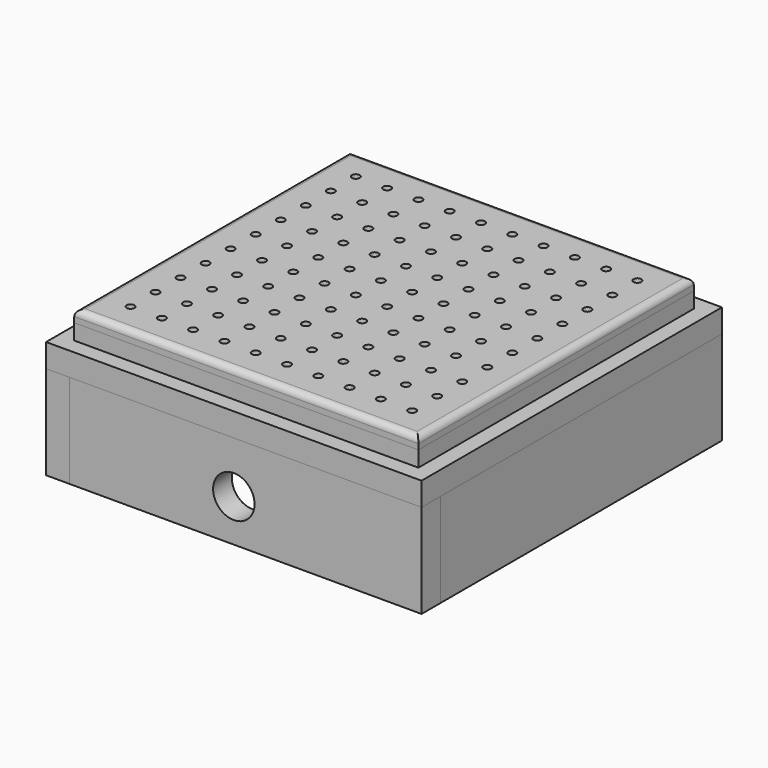
from build123d import *

# Parameters (mm, degrees)
F0_W      = 279.4
F0_H      = 279.4
F0_R      = 3.175
F1_DEPTH  = 9.525
F2_R      = 5.08
F3_W      = 279.4
F3_H      = 279.4
F3_W_2    = 228.6
F3_H_2    = 228.6
F4_DEPTH  = 12.7
F5_R      = 12.7
F6_W      = 304.8
F6_H      = 304.8
F6_R      = 16.8275
F7_DEPTH  = 19.05
F8_W      = 19.05
F8_H      = 285.75
F9_DEPTH  = 76.2
F10_COUNT = 4
F11_R     = 16.8275
F12_DEPTH = 25.4


with BuildPart() as f1:
    # F0 (on Top) → F1 (new body)
    with BuildSketch(Plane.XY):
        Rectangle(F0_W, F0_H)
        with Locations((-114.3, -114.3)):
            Circle(F0_R, mode=Mode.SUBTRACT)
        with Locations((-88.9, -114.3)):
            Circle(F0_R, mode=Mode.SUBTRACT)
        with Locations((-114.3, -88.9)):
            Circle(F0_R, mode=Mode.SUBTRACT)
        with Locations((-88.9, -88.9)):
            Circle(F0_R, mode=Mode.SUBTRACT)
        with Locations((-63.5, -114.3)):
            Circle(F0_R, mode=Mode.SUBTRACT)
        with Locations((-38.1, -114.3)):
            Circle(F0_R, mode=Mode.SUBTRACT)
        with Locations((-12.7, -114.3)):
            Circle(F0_R, mode=Mode.SUBTRACT)
        with Locations((-63.5, -88.9)):
            Circle(F0_R, mode=Mode.SUBTRACT)
        with Locations((-38.1, -88.9)):
            Circle(F0_R, mode=Mode.SUBTRACT)
        with Locations((-12.7, -88.9)):
            Circle(F0_R, mode=Mode.SUBTRACT)
        with Locations((-114.3, -63.5)):
            Circle(F0_R, mode=Mode.SUBTRACT)
        with Locations((-114.3, -38.1)):
            Circle(F0_R, mode=Mode.SUBTRACT)
        with Locations((-88.9, -63.5)):
            Circle(F0_R, mode=Mode.SUBTRACT)
        with Locations((-88.9, -38.1)):
            Circle(F0_R, mode=Mode.SUBTRACT)
        with Locations((-114.3, -12.7)):
            Circle(F0_R, mode=Mode.SUBTRACT)
        with Locations((-88.9, -12.7)):
            Circle(F0_R, mode=Mode.SUBTRACT)
        with Locations((-63.5, -63.5)):
            Circle(F0_R, mode=Mode.SUBTRACT)
        with Locations((-38.1, -63.5)):
            Circle(F0_R, mode=Mode.SUBTRACT)
        with Locations((-63.5, -38.1)):
            Circle(F0_R, mode=Mode.SUBTRACT)
        with Locations((-38.1, -38.1)):
            Circle(F0_R, mode=Mode.SUBTRACT)
        with Locations((-12.7, -63.5)):
            Circle(F0_R, mode=Mode.SUBTRACT)
        with Locations((-12.7, -38.1)):
            Circle(F0_R, mode=Mode.SUBTRACT)
        with Locations((-63.5, -12.7)):
            Circle(F0_R, mode=Mode.SUBTRACT)
        with Locations((-38.1, -12.7)):
            Circle(F0_R, mode=Mode.SUBTRACT)
        with Locations((-12.7, -12.7)):
            Circle(F0_R, mode=Mode.SUBTRACT)
        with Locations((12.7, -114.3)):
            Circle(F0_R, mode=Mode.SUBTRACT)
        with Locations((38.1, -114.3)):
            Circle(F0_R, mode=Mode.SUBTRACT)
        with Locations((63.5, -114.3)):
            Circle(F0_R, mode=Mode.SUBTRACT)
        with Locations((12.7, -88.9)):
            Circle(F0_R, mode=Mode.SUBTRACT)
        with Locations((38.1, -88.9)):
            Circle(F0_R, mode=Mode.SUBTRACT)
        with Locations((63.5, -88.9)):
            Circle(F0_R, mode=Mode.SUBTRACT)
        with Locations((88.9, -114.3)):
            Circle(F0_R, mode=Mode.SUBTRACT)
        with Locations((114.3, -114.3)):
            Circle(F0_R, mode=Mode.SUBTRACT)
        with Locations((88.9, -88.9)):
            Circle(F0_R, mode=Mode.SUBTRACT)
        with Locations((114.3, -88.9)):
            Circle(F0_R, mode=Mode.SUBTRACT)
        with Locations((12.7, -63.5)):
            Circle(F0_R, mode=Mode.SUBTRACT)
        with Locations((12.7, -38.1)):
            Circle(F0_R, mode=Mode.SUBTRACT)
        with Locations((38.1, -63.5)):
            Circle(F0_R, mode=Mode.SUBTRACT)
        with Locations((63.5, -63.5)):
            Circle(F0_R, mode=Mode.SUBTRACT)
        with Locations((38.1, -38.1)):
            Circle(F0_R, mode=Mode.SUBTRACT)
        with Locations((63.5, -38.1)):
            Circle(F0_R, mode=Mode.SUBTRACT)
        with Locations((12.7, -12.7)):
            Circle(F0_R, mode=Mode.SUBTRACT)
        with Locations((38.1, -12.7)):
            Circle(F0_R, mode=Mode.SUBTRACT)
        with Locations((63.5, -12.7)):
            Circle(F0_R, mode=Mode.SUBTRACT)
        with Locations((88.9, -63.5)):
            Circle(F0_R, mode=Mode.SUBTRACT)
        with Locations((88.9, -38.1)):
            Circle(F0_R, mode=Mode.SUBTRACT)
        with Locations((114.3, -63.5)):
            Circle(F0_R, mode=Mode.SUBTRACT)
        with Locations((114.3, -38.1)):
            Circle(F0_R, mode=Mode.SUBTRACT)
        with Locations((88.9, -12.7)):
            Circle(F0_R, mode=Mode.SUBTRACT)
        with Locations((114.3, -12.7)):
            Circle(F0_R, mode=Mode.SUBTRACT)
        with Locations((-114.3, 12.7)):
            Circle(F0_R, mode=Mode.SUBTRACT)
        with Locations((-88.9, 12.7)):
            Circle(F0_R, mode=Mode.SUBTRACT)
        with Locations((-114.3, 38.1)):
            Circle(F0_R, mode=Mode.SUBTRACT)
        with Locations((-114.3, 63.5)):
            Circle(F0_R, mode=Mode.SUBTRACT)
        with Locations((-88.9, 38.1)):
            Circle(F0_R, mode=Mode.SUBTRACT)
        with Locations((-88.9, 63.5)):
            Circle(F0_R, mode=Mode.SUBTRACT)
        with Locations((-63.5, 12.7)):
            Circle(F0_R, mode=Mode.SUBTRACT)
        with Locations((-38.1, 12.7)):
            Circle(F0_R, mode=Mode.SUBTRACT)
        with Locations((-12.7, 12.7)):
            Circle(F0_R, mode=Mode.SUBTRACT)
        with Locations((-63.5, 38.1)):
            Circle(F0_R, mode=Mode.SUBTRACT)
        with Locations((-38.1, 38.1)):
            Circle(F0_R, mode=Mode.SUBTRACT)
        with Locations((-63.5, 63.5)):
            Circle(F0_R, mode=Mode.SUBTRACT)
        with Locations((-38.1, 63.5)):
            Circle(F0_R, mode=Mode.SUBTRACT)
        with Locations((-12.7, 38.1)):
            Circle(F0_R, mode=Mode.SUBTRACT)
        with Locations((-12.7, 63.5)):
            Circle(F0_R, mode=Mode.SUBTRACT)
        with Locations((-114.3, 88.9)):
            Circle(F0_R, mode=Mode.SUBTRACT)
        with Locations((-88.9, 88.9)):
            Circle(F0_R, mode=Mode.SUBTRACT)
        with Locations((-114.3, 114.3)):
            Circle(F0_R, mode=Mode.SUBTRACT)
        with Locations((-88.9, 114.3)):
            Circle(F0_R, mode=Mode.SUBTRACT)
        with Locations((-63.5, 88.9)):
            Circle(F0_R, mode=Mode.SUBTRACT)
        with Locations((-38.1, 88.9)):
            Circle(F0_R, mode=Mode.SUBTRACT)
        with Locations((-12.7, 88.9)):
            Circle(F0_R, mode=Mode.SUBTRACT)
        with Locations((-63.5, 114.3)):
            Circle(F0_R, mode=Mode.SUBTRACT)
        with Locations((-38.1, 114.3)):
            Circle(F0_R, mode=Mode.SUBTRACT)
        with Locations((-12.7, 114.3)):
            Circle(F0_R, mode=Mode.SUBTRACT)
        with Locations((12.7, 12.7)):
            Circle(F0_R, mode=Mode.SUBTRACT)
        with Locations((38.1, 12.7)):
            Circle(F0_R, mode=Mode.SUBTRACT)
        with Locations((63.5, 12.7)):
            Circle(F0_R, mode=Mode.SUBTRACT)
        with Locations((12.7, 38.1)):
            Circle(F0_R, mode=Mode.SUBTRACT)
        with Locations((12.7, 63.5)):
            Circle(F0_R, mode=Mode.SUBTRACT)
        with Locations((38.1, 38.1)):
            Circle(F0_R, mode=Mode.SUBTRACT)
        with Locations((63.5, 38.1)):
            Circle(F0_R, mode=Mode.SUBTRACT)
        with Locations((38.1, 63.5)):
            Circle(F0_R, mode=Mode.SUBTRACT)
        with Locations((63.5, 63.5)):
            Circle(F0_R, mode=Mode.SUBTRACT)
        with Locations((88.9, 12.7)):
            Circle(F0_R, mode=Mode.SUBTRACT)
        with Locations((114.3, 12.7)):
            Circle(F0_R, mode=Mode.SUBTRACT)
        with Locations((88.9, 38.1)):
            Circle(F0_R, mode=Mode.SUBTRACT)
        with Locations((88.9, 63.5)):
            Circle(F0_R, mode=Mode.SUBTRACT)
        with Locations((114.3, 38.1)):
            Circle(F0_R, mode=Mode.SUBTRACT)
        with Locations((114.3, 63.5)):
            Circle(F0_R, mode=Mode.SUBTRACT)
        with Locations((12.7, 88.9)):
            Circle(F0_R, mode=Mode.SUBTRACT)
        with Locations((38.1, 88.9)):
            Circle(F0_R, mode=Mode.SUBTRACT)
        with Locations((63.5, 88.9)):
            Circle(F0_R, mode=Mode.SUBTRACT)
        with Locations((12.7, 114.3)):
            Circle(F0_R, mode=Mode.SUBTRACT)
        with Locations((38.1, 114.3)):
            Circle(F0_R, mode=Mode.SUBTRACT)
        with Locations((63.5, 114.3)):
            Circle(F0_R, mode=Mode.SUBTRACT)
        with Locations((88.9, 88.9)):
            Circle(F0_R, mode=Mode.SUBTRACT)
        with Locations((114.3, 88.9)):
            Circle(F0_R, mode=Mode.SUBTRACT)
        with Locations((88.9, 114.3)):
            Circle(F0_R, mode=Mode.SUBTRACT)
        with Locations((114.3, 114.3)):
            Circle(F0_R, mode=Mode.SUBTRACT)
    extrude(amount=F1_DEPTH)

    # F2
    f2_edges = [f1.edges().sort_by_distance(p)[0] for p in [
        (-139.7, 0, 9.525),
        (139.7, 0, 9.525),
        (0, 139.7, 9.525),
        (0, -139.7, 9.525),
    ]]
    fillet(f2_edges, radius=F2_R)


with BuildPart() as f4:
    # F3 (on face) → F4 (new body)
    with BuildSketch(Plane(origin=(0, 0, 0), x_dir=(1, 0, 0), z_dir=(0, 0, -1))):
        Rectangle(F3_W, F3_H)
        Rectangle(F3_W_2, F3_H_2, mode=Mode.SUBTRACT)
    extrude(amount=F4_DEPTH)

    # F5
    f5_edges = [f4.edges().sort_by_distance(p)[0] for p in [
        (-114.3, -114.3, -6.35),
        (114.3, -114.3, -6.35),
        (114.3, 114.3, -6.35),
        (-114.3, 114.3, -6.35),
    ]]
    fillet(f5_edges, radius=F5_R)


with BuildPart() as f7:
    # F6 (on face) → F7 (new body)
    with BuildSketch(Plane(origin=(0, 0, -12.7), x_dir=(1, 0, 0), z_dir=(0, 0, -1))):
        Rectangle(F6_W, F6_H)
        Circle(F6_R, mode=Mode.SUBTRACT)
    extrude(amount=F7_DEPTH)


with BuildPart() as f9:
    # F8 (on face) → F9 (new body)
    with BuildSketch(Plane(origin=(0, 0, -31.75), x_dir=(1, 0, 0), z_dir=(0, 0, -1))):
        with Locations((-142.875, 9.525)):
            Rectangle(F8_W, F8_H)
    extrude(amount=F9_DEPTH)


with BuildPart() as f10_1:
    # F10: instance of F9
    add(f9.part.rotate(Axis((0, 0, -31.75), (0, 0, -1)), 1 * 360 / F10_COUNT))


with BuildPart() as f10_2:
    # F10: instance of F9
    add(f9.part.rotate(Axis((0, 0, -31.75), (0, 0, -1)), 2 * 360 / F10_COUNT))


with BuildPart() as f10_3:
    # F10: instance of F9
    add(f9.part.rotate(Axis((0, 0, -31.75), (0, 0, -1)), 3 * 360 / F10_COUNT))

    # F11 (on face) → F12 (cut)
    with BuildSketch(Plane.XZ.offset(152.4)):
        with Locations((0, -73.5838)):
            Circle(F11_R)
    extrude(amount=-F12_DEPTH, mode=Mode.SUBTRACT)


solid = Compound([f1.part, f4.part, f7.part, f9.part, f10_1.part, f10_2.part, f10_3.part])
